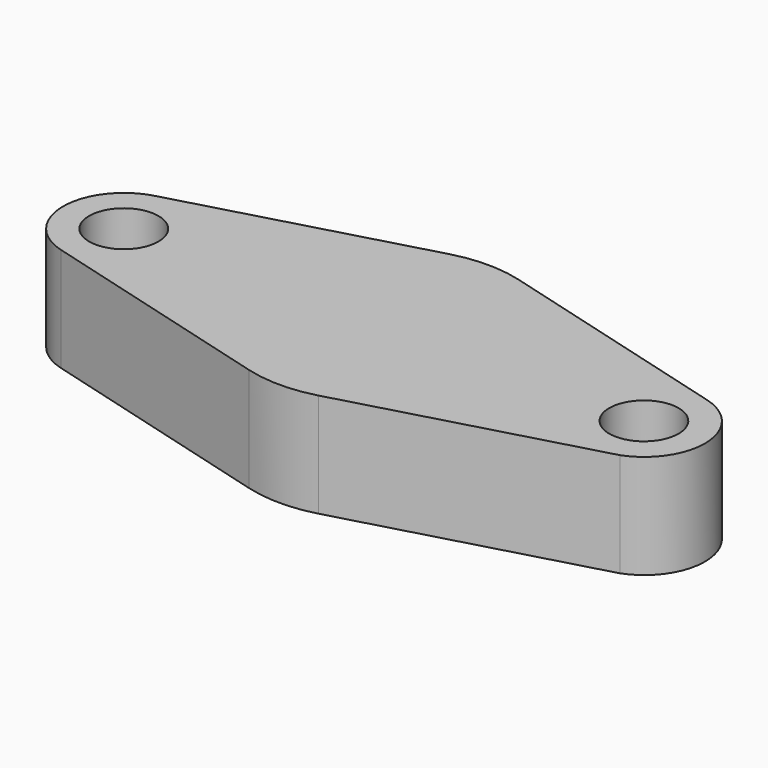
from build123d import *

# Parameters (mm, degrees)
SKETCH_R  = 4
PAD_DEPTH = 12


with BuildPart() as part:
    # Sketch → Pad (new body)
    with BuildSketch(Plane.XY):
        with BuildLine():
            ThreePointArc((-4, -14.456832), (0, -15), (4, -14.456832))
            Line((32.478293, -6.577294), (4, -14.456832))
            ThreePointArc((32.478293, -6.577294), (37.040054, 0.307444), (31.867844, 6.746196))
            Line((31.867844, 6.746196), (4, 14.456832))
            ThreePointArc((4, 14.456832), (0, 15), (-4, 14.456832))
            Line((-31.75668, 6.775993), (-4, 14.456832))
            ThreePointArc((-31.75668, 6.775993), (-36.999768, 0.056933), (-31.866667, -6.746522))
            Line((-31.866667, -6.746522), (-4, -14.456832))
        make_face()
        with Locations((-30, 0)):
            Circle(SKETCH_R, mode=Mode.SUBTRACT)
        with Locations((30, 0)):
            Circle(SKETCH_R, mode=Mode.SUBTRACT)
    extrude(amount=PAD_DEPTH)


solid = part.part
